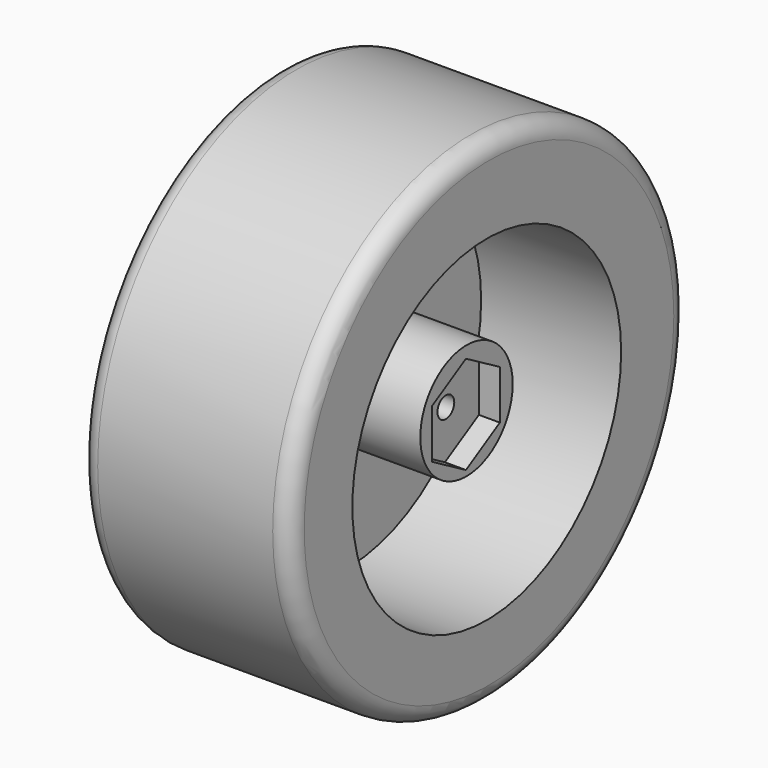
from build123d import *

# Parameters (mm, degrees)
SKETCH013_R     = 35.5
PAD009_DEPTH    = 30
FILLET002_R     = 2.5
FILLET003_R     = 2.5
SKETCH014_R     = 24
POCKET004_DEPTH = 20
SKETCH015_R     = 8.25
PAD010_DEPTH    = 16
POCKET005_DEPTH = 3
SKETCH017_R     = 1.5
POCKET006_DEPTH = 25


with BuildPart() as part:
    # Sketch013 → Pad009 (new body)
    with BuildSketch(Plane.YZ):
        with Locations((-2.086276, 2.086154)):
            Circle(SKETCH013_R)
    extrude(amount=PAD009_DEPTH)

    # Fillet002
    fillet002_edges = [part.edges().sort_by_distance(p)[0] for p in [
        (30, -37.586276, 2.086154),
    ]]
    fillet(fillet002_edges, radius=FILLET002_R)

    # Fillet003
    fillet003_edges = [part.edges().sort_by_distance(p)[0] for p in [
        (0, -37.586276, 2.086154),
    ]]
    fillet(fillet003_edges, radius=FILLET003_R)

    # Sketch014 (on Face3 of Pad009) → Pocket004 (cut)
    with BuildSketch(Plane.YZ.offset(30)):
        with Locations((-2.490074, 1.413427)):
            Circle(SKETCH014_R)
    extrude(amount=-POCKET004_DEPTH, mode=Mode.SUBTRACT)

    # Sketch015 (on Face7 of Pocket004) → Pad010 (join)
    with BuildSketch(Plane.YZ.offset(10)):
        with Locations((-1.106776, 1.902246)):
            Circle(SKETCH015_R)
    extrude(amount=PAD010_DEPTH)

    # Sketch016 (on Face9 of Pad010) → Pocket005 (cut)
    with BuildSketch(Plane.YZ.offset(26)):
        Polygon((4.852949, 4.988847), (-1.209229, 8.488847), (-7.271407, 4.988847), (-7.271407, -2.011153), (-1.209229, -5.511153), (4.852949, -2.011153), align=None)
    extrude(amount=-POCKET005_DEPTH, mode=Mode.SUBTRACT)

    # Sketch017 (on Face16 of Pocket005) → Pocket006 (cut)
    with BuildSketch(Plane.YZ.offset(23)):
        with Locations((-1.040093, 1.343548)):
            Circle(SKETCH017_R)
    extrude(amount=-POCKET006_DEPTH, mode=Mode.SUBTRACT)


with BuildPart() as part_1:
    # Body004 placement: moved
    add(part.part.moved(Location((-85, -37, 20))))


solid = part_1.part
